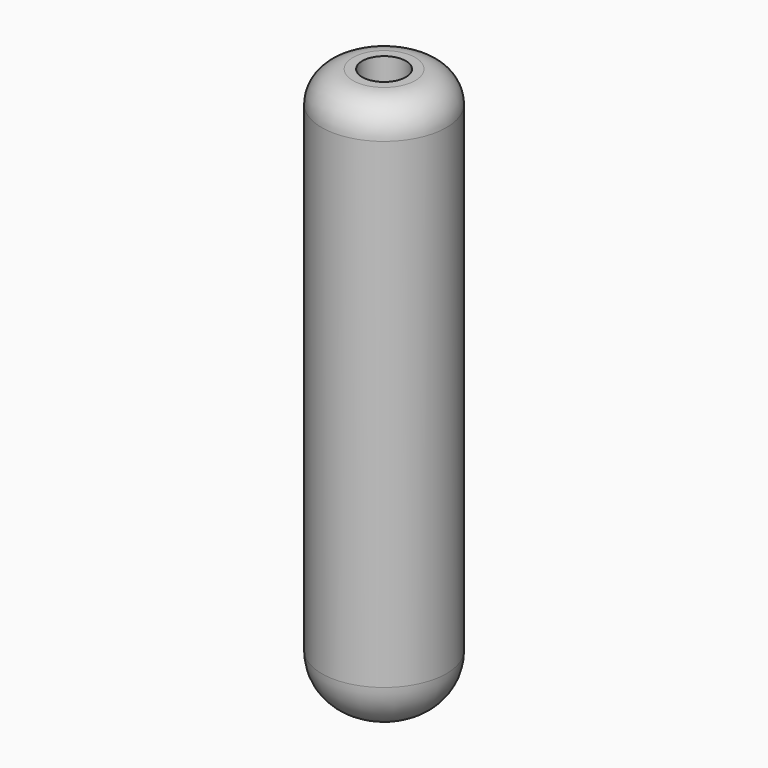
from build123d import *

# Parameters (mm, degrees)
F0_R     = 10
F1_DEPTH = 90
F2_R     = 8
F3_R     = 5
F4_R     = 3.5
F5_DEPTH = 45
F6_R     = 1.5
F7_DEPTH = 10.001


with BuildPart() as f1:
    # F0 (on Top) → F1 (new body)
    with BuildSketch(Plane.XY):
        Circle(F0_R)
    extrude(amount=F1_DEPTH)

    # F2
    f2_edges = [f1.edges().sort_by_distance(p)[0] for p in [
        (-10, 0, 0),
    ]]
    fillet(f2_edges, radius=F2_R)

    # F3
    f3_edges = [f1.edges().sort_by_distance(p)[0] for p in [
        (-10, 0, 90),
    ]]
    fillet(f3_edges, radius=F3_R)

    # F4 (on face) → F5 (cut)
    with BuildSketch(Plane.XY.offset(90)):
        Circle(F4_R)
    extrude(amount=-F5_DEPTH, mode=Mode.SUBTRACT)

    # F6 (on Front) → F7 (cut, through all)
    with BuildSketch(Plane.XZ):
        with Locations((0, 75)):
            Circle(F6_R)
    extrude(amount=-F7_DEPTH, mode=Mode.SUBTRACT)


solid = f1.part
